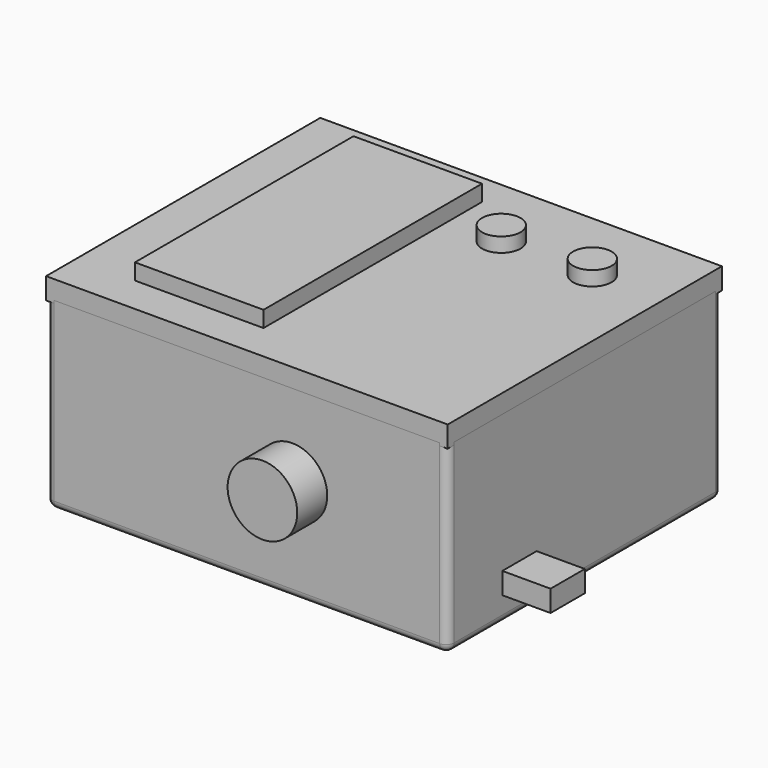
from build123d import *

# Parameters (mm, degrees)
CYLINDER_R                = 6.5
CYLINDER_DEPTH            = 9
BOX_W                     = 30
BOX_H                     = 16
BOX_DEPTH                 = 30
FUSION_PLACEMENT_ANGLE    = 90
BOX002_W                  = 51
BOX002_H                  = 24
BOX002_DEPTH              = 7
BOX001_W                  = 51
BOX001_H                  = 28
BOX001_DEPTH              = 6
FUSION001_PLACEMENT_ANGLE = 90
BOX003_W                  = 50
BOX003_H                  = 27
BOX003_DEPTH              = 12
CYLINDER002_R             = 3.6
CYLINDER002_DEPTH         = 6.7
CYLINDER001_R             = 4.65
CYLINDER001_DEPTH         = 19
CYLINDER004_R             = 3.6
CYLINDER004_DEPTH         = 6.7
CYLINDER003_R             = 4.65
CYLINDER003_DEPTH         = 19
BOX007_W                  = 10
BOX007_H                  = 10
BOX007_DEPTH              = 10
BOX006_W                  = 10
BOX006_H                  = 10
BOX006_DEPTH              = 10
BOX005_W                  = 10
BOX005_H                  = 8
BOX005_DEPTH              = 4
BOX004_W                  = 29
BOX004_H                  = 19.5
BOX004_DEPTH              = 7.25
BOX008_W                  = 28
BOX008_H                  = 18
BOX008_DEPTH              = 12.2
CYLINDER005_R             = 3
CYLINDER005_DEPTH         = 10
BOX009_W                  = 30
BOX009_H                  = 30
BOX009_DEPTH              = 6
FUSION005_PLACEMENT_ANGLE = 90
BOX011_W                  = 67
BOX011_H                  = 56
BOX011_DEPTH              = 30
BOX012_W                  = 75
BOX012_H                  = 64
BOX012_DEPTH              = 4
BOX013_W                  = 27
BOX013_H                  = 15.5
BOX013_DEPTH              = 3.5
BOX010_W                  = 75
BOX010_H                  = 64
BOX010_DEPTH              = 36
FILLET_R                  = 1.5


with BuildPart() as cylinder:
    # Cylinder → Cylinder (new body)
    with BuildSketch(Plane(origin=(15, 8, 30), x_dir=(1, 0, 0), z_dir=(0, 0, 1))):
        Circle(CYLINDER_R)
    extrude(amount=CYLINDER_DEPTH)


with BuildPart() as awesome_switch:
    # Box → Box (new body)
    with BuildSketch(Plane.XY):
        with Locations((15, 8)):
            Rectangle(BOX_W, BOX_H)
    extrude(amount=BOX_DEPTH)

    # Fusion: union Cylinder
    add(cylinder.part)


with BuildPart() as awesome_switch_1:
    # Fusion placement: moved
    add(awesome_switch.part.moved(Location((-11, 17, 8))).rotate(Axis((-11, 17, 8), (1, 0, 0)), FUSION_PLACEMENT_ANGLE))


with BuildPart() as cube002:
    # Box002 → Box002 (new body)
    with BuildSketch(Plane(origin=(0, 2, 6), x_dir=(1, 0, 0), z_dir=(0, 0, 1))):
        with Locations((25.5, 12)):
            Rectangle(BOX002_W, BOX002_H)
    extrude(amount=BOX002_DEPTH)


with BuildPart() as lcd_display:
    # Box001 → Box001 (new body)
    with BuildSketch(Plane.XY):
        with Locations((25.5, 14)):
            Rectangle(BOX001_W, BOX001_H)
    extrude(amount=BOX001_DEPTH)

    # Fusion001: union Cube002
    add(cube002.part)


with BuildPart() as lcd_display_1:
    # Fusion001 placement: moved
    add(lcd_display.part.moved(Location((-5, -8, 25))).rotate(Axis((-5, -8, 25), (0, 0, 1)), FUSION001_PLACEMENT_ANGLE))


with BuildPart() as lipo_battery:
    # Box003 → Box003 (new body)
    with BuildSketch(Plane(origin=(-22, 18, 0), x_dir=(1, 0, 0), z_dir=(0, 0, 1))):
        with Locations((25, 13.5)):
            Rectangle(BOX003_W, BOX003_H)
    extrude(amount=BOX003_DEPTH)


with BuildPart() as cylinder002:
    # Cylinder002 → Cylinder002 (new body)
    with BuildSketch(Plane.XY.offset(19)):
        Circle(CYLINDER002_R)
    extrude(amount=CYLINDER002_DEPTH)


with BuildPart() as push_button_mode_reset:
    # Cylinder001 → Cylinder001 (new body)
    with BuildSketch(Plane.XY):
        Circle(CYLINDER001_R)
    extrude(amount=CYLINDER001_DEPTH)

    # Fusion002: union Cylinder002
    add(cylinder002.part)


with BuildPart() as push_button_mode_reset_1:
    # Fusion002 placement: moved
    add(push_button_mode_reset.part.moved(Location((20, 35, 12))))


with BuildPart() as cylinder004:
    # Cylinder004 → Cylinder004 (new body)
    with BuildSketch(Plane.XY.offset(19)):
        Circle(CYLINDER004_R)
    extrude(amount=CYLINDER004_DEPTH)


with BuildPart() as push_button_start_stop:
    # Cylinder003 → Cylinder003 (new body)
    with BuildSketch(Plane.XY):
        Circle(CYLINDER003_R)
    extrude(amount=CYLINDER003_DEPTH)

    # Fusion003: union Cylinder004
    add(cylinder004.part)


with BuildPart() as push_button_start_stop_1:
    # Fusion003 placement: moved
    add(push_button_start_stop.part.moved(Location((3, 35, 12))))


with BuildPart() as cube006:
    # Box007 → Box007 (new body)
    with BuildSketch(Plane(origin=(19, 14.5, 4), x_dir=(1, 0, 0), z_dir=(0, 0, 1))):
        with Locations((5, 5)):
            Rectangle(BOX007_W, BOX007_H)
    extrude(amount=BOX007_DEPTH)


with BuildPart() as cube005:
    # Box006 → Box006 (new body)
    with BuildSketch(Plane(origin=(19, -5, 4), x_dir=(1, 0, 0), z_dir=(0, 0, 1))):
        with Locations((5, 5)):
            Rectangle(BOX006_W, BOX006_H)
    extrude(amount=BOX006_DEPTH)


with BuildPart() as cube004:
    # Box005 → Box005 (new body)
    with BuildSketch(Plane(origin=(28, 5.75, 1.75), x_dir=(1, 0, 0), z_dir=(0, 0, 1))):
        with Locations((5, 4)):
            Rectangle(BOX005_W, BOX005_H)
    extrude(amount=BOX005_DEPTH)


with BuildPart() as usb_battery_charger:
    # Box004 → Box004 (new body)
    with BuildSketch(Plane.XY):
        with Locations((14.5, 9.75)):
            Rectangle(BOX004_W, BOX004_H)
    extrude(amount=BOX004_DEPTH)

    # Fusion004: union Cube004
    add(cube004.part)

    # Cut: cut Cube005
    add(cube005.part, mode=Mode.SUBTRACT)

    # Cut001: cut Cube006
    add(cube006.part, mode=Mode.SUBTRACT)


with BuildPart() as usb_battery_charger_1:
    # Cut001 placement: moved
    add(usb_battery_charger.part.moved(Location((4, -8, 0))))


with BuildPart() as obj1:
    # Box008 → Box008 (new body)
    with BuildSketch(Plane(origin=(-30, -7, 0), x_dir=(1, 0, 0), z_dir=(0, 0, 1))):
        with Locations((14, 9)):
            Rectangle(BOX008_W, BOX008_H)
    extrude(amount=BOX008_DEPTH)


with BuildPart() as cylinder005:
    # Cylinder005 → Cylinder005 (new body)
    with BuildSketch(Plane(origin=(15, 15, 0), x_dir=(1, 0, 0), z_dir=(0, 0, 1))):
        Circle(CYLINDER005_R)
    extrude(amount=CYLINDER005_DEPTH)


with BuildPart() as obj2:
    # Box009 → Box009 (new body)
    with BuildSketch(Plane.XY):
        with Locations((15, 15)):
            Rectangle(BOX009_W, BOX009_H)
    extrude(amount=BOX009_DEPTH)

    # Fusion005: union Cylinder005
    add(cylinder005.part)


with BuildPart() as obj2_1:
    # Fusion005 placement: moved
    add(obj2.part.moved(Location((-34, 0, 0))).rotate(Axis((-34, 0, 0), (0, -1, 0)), FUSION005_PLACEMENT_ANGLE))


with BuildPart() as innerbox:
    # Box011 → Box011 (new body)
    with BuildSketch(Plane(origin=(-38, -11, 0), x_dir=(1, 0, 0), z_dir=(0, 0, 1))):
        with Locations((33.5, 28)):
            Rectangle(BOX011_W, BOX011_H)
    extrude(amount=BOX011_DEPTH)


with BuildPart() as lidremove:
    # Box012 → Box012 (new body)
    with BuildSketch(Plane(origin=(-42, -15, 31), x_dir=(1, 0, 0), z_dir=(0, 0, 1))):
        with Locations((37.5, 32)):
            Rectangle(BOX012_W, BOX012_H)
    extrude(amount=BOX012_DEPTH)


with BuildPart() as arduino:
    # Box013 → Box013 (new body)
    with BuildSketch(Plane(origin=(-35, 19, 12), x_dir=(1, 0, 0), z_dir=(0, 0, 1))):
        with Locations((13.5, 7.75)):
            Rectangle(BOX013_W, BOX013_H)
    extrude(amount=BOX013_DEPTH)


with BuildPart() as fillet_body:
    # Box010 → Box010 (new body)
    with BuildSketch(Plane(origin=(-42, -15, -3), x_dir=(1, 0, 0), z_dir=(0, 0, 1))):
        with Locations((37.5, 32)):
            Rectangle(BOX010_W, BOX010_H)
    extrude(amount=BOX010_DEPTH)

    # Fillet
    fillet_edges = [fillet_body.edges().sort_by_distance(p)[0] for p in [
        (-42, -15, 15),
        (-42, 17, 33),
        (-42, 49, 15),
        (-42, 17, -3),
        (33, -15, 15),
        (33, 17, 33),
        (33, 49, 15),
        (33, 17, -3),
        (-4.5, -15, -3),
        (-4.5, -15, 33),
        (-4.5, 49, -3),
        (-4.5, 49, 33),
    ]]
    fillet(fillet_edges, radius=FILLET_R)


solid = Compound([awesome_switch_1.part, lcd_display_1.part, lipo_battery.part, push_button_mode_reset_1.part, push_button_start_stop_1.part, usb_battery_charger_1.part, obj1.part, obj2_1.part, innerbox.part, lidremove.part, arduino.part, fillet_body.part])
